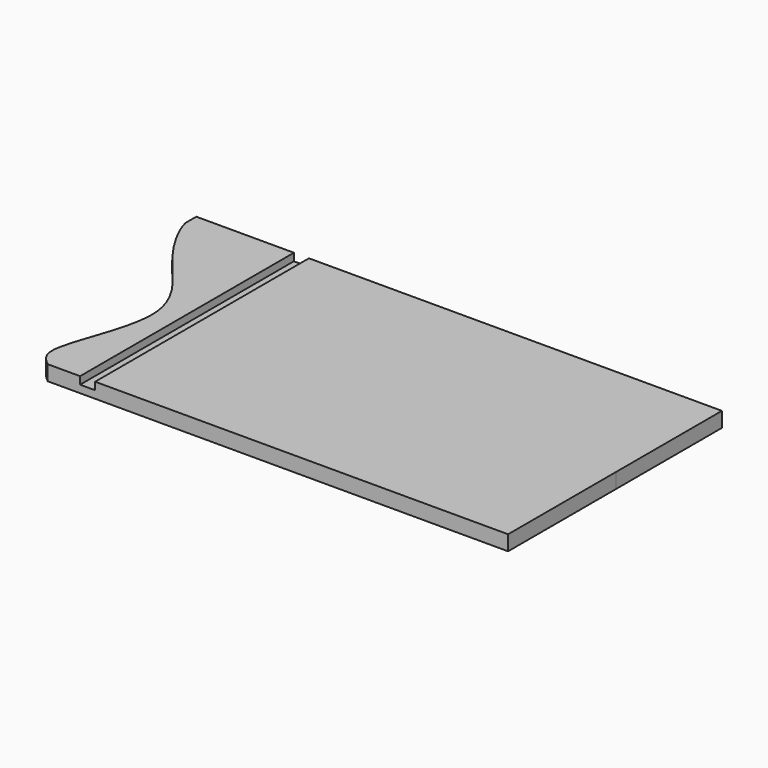
from build123d import *

# Parameters (mm, degrees)
F0_W     = 888.9909996986
F0_H     = 5.1128612518
F1_DEPTH = 25.4
F3_DEPTH = 12.7
F5_DEPTH = 25.4


with BuildPart() as f1:
    # F0 (on Top) → F1 (new body)
    with BuildSketch(Plane.XY):
        Polygon((444.5, -109.1871387482), (444.5, 114.3), (-444.5, 114.3), (-444.5, -114.3), (-444.4909996986, -114.3), (-444.4909996986, -109.1871387482), align=None)
        Polygon((444.5090003014, -109.1871387482), (444.5, -109.1871387482), (444.5, -114.3), (-444.4909996986, -114.3), (-444.4909996986, -337.7871387482), (444.5090003014, -337.7871387482), align=None)
        with Locations((0.0045001507, -111.7435693741)):
            Rectangle(F0_W, F0_H)
    extrude(amount=F1_DEPTH)

    # F2 (on face) → F3 (cut)
    with BuildSketch(Plane.XY.offset(25.4)):
        Polygon((-266.7, 114.3), (-279.4, 114.3), (-279.4, -337.7871387482), (-254, -337.7871387482), (-254, 114.3), align=None)
    extrude(amount=-F3_DEPTH, mode=Mode.SUBTRACT)

    # F4 (on face) → F5 (cut)
    with BuildSketch(Plane(origin=(0, 0, 0), x_dir=(1, 0, 0), z_dir=(0, 0, -1))):
        with BuildLine():
            Line((-444.5, 114.3), (-444.5, -91.3470163941))
            add(Edge.make_bspline(
                [(-444.5, -91.3470163941), (-439.8643107844, -70.3071791015), (-396.5612558672, 10.0595120676), (-272.6729040405, 121.5892977787), (-374.2433991601, 303.6629585996), (-343.9956112011, 329.4717163372), (-334.2497050762, 337.7871387482)],
                knots=[0.1020972669, 0.1020972669, 0.1020972669, 0.1020972669, 0.3199118394, 0.5865273881, 0.8667797776, 1, 1, 1, 1], degree=3))
            Line((-334.2497050762, 337.7871387482), (-444.4909996986, 337.7871387482))
            Line((-444.4909996986, 337.7871387482), (-444.4909996986, 114.3))
            Line((-444.4909996986, 114.3), (-444.5, 114.3))
        make_face()
    extrude(amount=-F5_DEPTH, mode=Mode.SUBTRACT)


solid = f1.part
